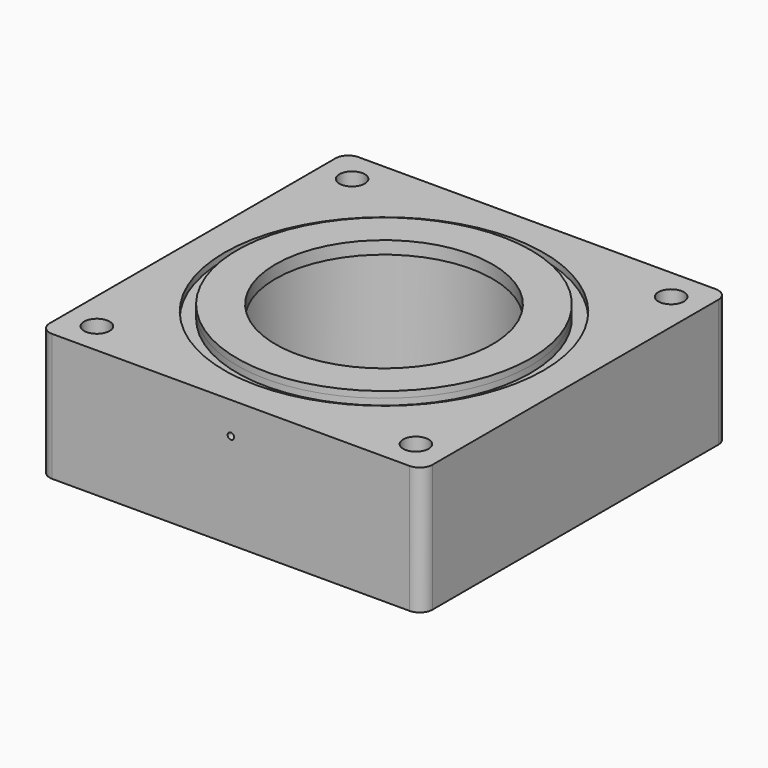
from build123d import *

# Parameters (mm, degrees)
F0_W      = 76.2
F0_H      = 76.2
F1_DEPTH  = 25.4
F2_R      = 2.54
F3_R      = 31.75
F3_R_2    = 29.21
F4_DEPTH  = 1.27
F5_D      = 5.08
F4_FACE_R = 29.21
F6_DEPTH  = 1.27
F7_R      = 24.13
F8_DEPTH  = 24.13
F9_D      = 43.18
F11_D     = 1.27
F11_DEPTH = 25.4


with BuildPart() as f1:
    # F0 (on Top) → F1 (new body)
    with BuildSketch(Plane.XY):
        Rectangle(F0_W, F0_H)
    extrude(amount=F1_DEPTH)

    # F2
    f2_edges = [f1.edges().sort_by_distance(p)[0] for p in [
        (38.1, -38.1, 12.7),
        (38.1, 38.1, 12.7),
        (-38.1, -38.1, 12.7),
        (-38.1, 38.1, 12.7),
    ]]
    fillet(f2_edges, radius=F2_R)

    # F3 (on face) → F4 (cut)
    with BuildSketch(Plane.XY.offset(25.4)):
        Circle(F3_R)
        Circle(F3_R_2, mode=Mode.SUBTRACT)
    extrude(amount=-F4_DEPTH, mode=Mode.SUBTRACT)

    # F5 (through all)
    with Locations(Plane.XY.offset(25.4)):
        with Locations((-31.75, 31.75), (31.75, 31.75), (31.75, -31.75), (-31.75, -31.75)):
            Hole(F5_D / 2)

    # F4_face (on face) → F6 (join)
    with BuildSketch(Plane.XY.offset(25.4)):
        Circle(F4_FACE_R)
    extrude(amount=F6_DEPTH)

    # F7 (on face) → F8 (cut)
    with BuildSketch(Plane(origin=(0, 0, 0), x_dir=(1, 0, 0), z_dir=(0, 0, -1))):
        Circle(F7_R)
    extrude(amount=-F8_DEPTH, mode=Mode.SUBTRACT)

    # F9 (through all)
    with Locations(Plane(origin=(0, 0, 0), x_dir=(1, 0, 0), z_dir=(0, 0, -1))):
        with Locations((0, 0)):
            Hole(F9_D / 2)

    # F11
    with Locations(Plane.XZ.offset(38.1)):
        with Locations((0, 19.05)):
            Hole(F11_D / 2, depth=F11_DEPTH)


solid = f1.part
